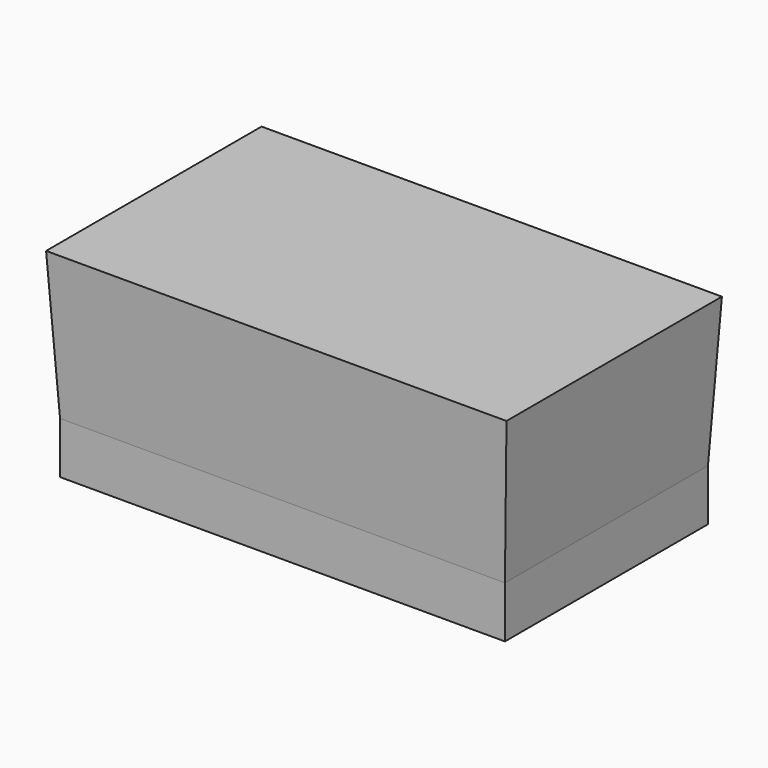
from build123d import *

# Parameters (mm, degrees)
F0_W          = 218.8889682293
F0_H          = 124.8575001955
F1_DEPTH      = 72.898
F1_TAPER      = -3
F1_DEPTH_BACK = 25.4


with BuildPart() as f1:
    # F0 (on Top) → F1 (new body, two sides)
    with BuildSketch(Plane.XY) as f1_sk:
        Rectangle(F0_W, F0_H)
    extrude(amount=F1_DEPTH, taper=F1_TAPER)
    extrude(f1_sk.sketch, amount=-F1_DEPTH_BACK)


solid = f1.part
